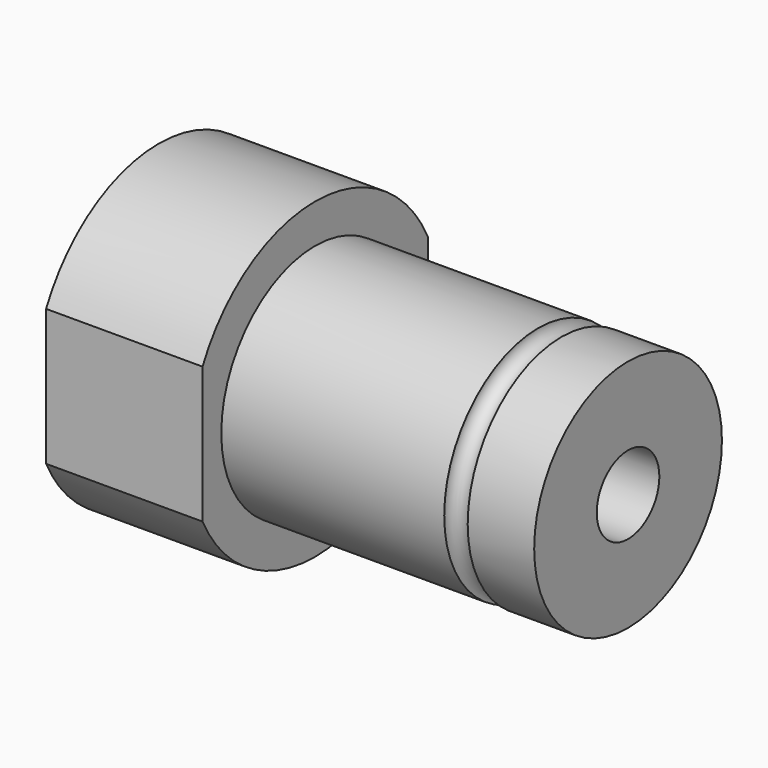
from build123d import *

# Parameters (mm, degrees)
F0_R     = 20
F1_DEPTH = 60
F2_R     = 20
F2_R_2   = 15
F3_DEPTH = 40
F5_DEPTH = 20
F6_R     = 1.5
F8_R     = 5
F9_DEPTH = 60


with BuildPart() as f1:
    # F0 (on Right) → F1 (new body)
    with BuildSketch(Plane.YZ):
        Circle(F0_R)
    extrude(amount=F1_DEPTH)

    # F2 (on face) → F3 (cut)
    with BuildSketch(Plane.YZ.offset(60)):
        Circle(F2_R)
        Circle(F2_R_2, mode=Mode.SUBTRACT)
    extrude(amount=-F3_DEPTH, mode=Mode.SUBTRACT)

    # F4 (on face) → F5 (cut)
    with BuildSketch(Plane.YZ.offset(20)):
        with BuildLine():
            Line((-18, -8.717798), (-18, 8.717798))
            ThreePointArc((-18, 8.717798), (-20, 0), (-18, -8.717798))
        make_face()
        with BuildLine():
            ThreePointArc((18, -8.717798), (20, 0), (18, 8.717798))
            Line((18, 8.717798), (18, -8.717798))
        make_face()
    extrude(amount=-F5_DEPTH, mode=Mode.SUBTRACT)

    # F6 (on Front) → F7 (revolve, cut)
    with BuildSketch(Plane.XZ):
        with Locations((50, 15)):
            Circle(F6_R)
    revolve(axis=Axis((60, 0, 0), (1, 0, 0)), mode=Mode.SUBTRACT)

    # F8 (on face) → F9 (cut)
    with BuildSketch(Plane.YZ.offset(60)):
        Circle(F8_R)
    extrude(amount=-F9_DEPTH, mode=Mode.SUBTRACT)


solid = f1.part
